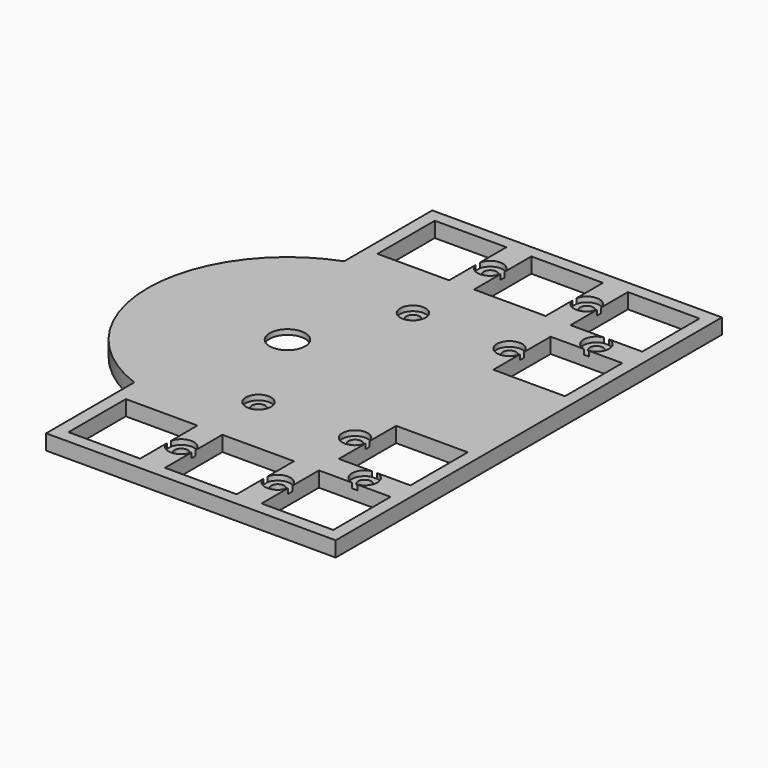
from build123d import *

# Parameters (mm, degrees)
SKETCH014_R     = 3.5
SKETCH014_R_2   = 1.3
SKETCH014_W     = 14.1
SKETCH014_H     = 14.1
PAD004_DEPTH    = 3
SKETCH015_R     = 2.5
POCKET009_DEPTH = 1
SKETCH016_W     = 13
SKETCH016_H     = 15
POCKET010_DEPTH = 2


with BuildPart() as part:
    # Sketch014 → Pad004 (new body)
    with BuildSketch(Plane.XY):
        with BuildLine():
            Line((0, 0), (57, 0))
            Line((57, 0), (57, 95))
            Line((57, 95), (0, 95))
            Line((0, 73.306976), (0, 95))
            ThreePointArc((0, 73.306976), (-18, 47.5), (0, 21.693024))
            Line((0, 21.693024), (0, 0))
        make_face()
        with Locations((9.5, 47.5)):
            Circle(SKETCH014_R, mode=Mode.SUBTRACT)
        with Locations((19, 85.5)):
            Circle(SKETCH014_R_2, mode=Mode.SUBTRACT)
        with Locations((38, 85.5)):
            Circle(SKETCH014_R_2, mode=Mode.SUBTRACT)
        with Locations((38, 66.5)):
            Circle(SKETCH014_R_2, mode=Mode.SUBTRACT)
        with Locations((19, 66.5)):
            Circle(SKETCH014_R_2, mode=Mode.SUBTRACT)
        with Locations((38, 28.5)):
            Circle(SKETCH014_R_2, mode=Mode.SUBTRACT)
        with Locations((19, 28.5)):
            Circle(SKETCH014_R_2, mode=Mode.SUBTRACT)
        with Locations((19, 9.5)):
            Circle(SKETCH014_R_2, mode=Mode.SUBTRACT)
        with Locations((38, 9.5)):
            Circle(SKETCH014_R_2, mode=Mode.SUBTRACT)
        with Locations((47.5, 19)):
            Circle(SKETCH014_R_2, mode=Mode.SUBTRACT)
        with Locations((47.5, 76)):
            Circle(SKETCH014_R_2, mode=Mode.SUBTRACT)
        with Locations((9.5, 9.5)):
            Rectangle(SKETCH014_W, SKETCH014_H, mode=Mode.SUBTRACT)
        with Locations((28.5, 9.5)):
            Rectangle(SKETCH014_W, SKETCH014_H, mode=Mode.SUBTRACT)
        with Locations((47.5, 9.5)):
            Rectangle(SKETCH014_W, SKETCH014_H, mode=Mode.SUBTRACT)
        with Locations((47.5, 28.5)):
            Rectangle(SKETCH014_W, SKETCH014_H, mode=Mode.SUBTRACT)
        with Locations((47.5, 66.5)):
            Rectangle(SKETCH014_W, SKETCH014_H, mode=Mode.SUBTRACT)
        with Locations((47.5, 85.5)):
            Rectangle(SKETCH014_W, SKETCH014_H, mode=Mode.SUBTRACT)
        with Locations((28.5, 85.5)):
            Rectangle(SKETCH014_W, SKETCH014_H, mode=Mode.SUBTRACT)
        with Locations((9.5, 85.5)):
            Rectangle(SKETCH014_W, SKETCH014_H, mode=Mode.SUBTRACT)
    extrude(amount=PAD004_DEPTH)

    # Sketch015 (on Face51 of Pad004) → Pocket009 (cut)
    with BuildSketch(Plane.XY.offset(3)):
        with Locations((19, 28.5)):
            Circle(SKETCH015_R)
        with Locations((38, 28.5)):
            Circle(SKETCH015_R)
        with Locations((47.5, 19)):
            Circle(SKETCH015_R)
        with Locations((38, 9.5)):
            Circle(SKETCH015_R)
        with Locations((19, 9.5)):
            Circle(SKETCH015_R)
        with Locations((19, 66.5)):
            Circle(SKETCH015_R)
        with Locations((38, 85.5)):
            Circle(SKETCH015_R)
        with Locations((38, 66.5)):
            Circle(SKETCH015_R)
        with Locations((47.5, 76)):
            Circle(SKETCH015_R)
        with Locations((19, 85.5)):
            Circle(SKETCH015_R)
    extrude(amount=-POCKET009_DEPTH, mode=Mode.SUBTRACT)

    # Sketch016 (on Face4 of Pocket009) → Pocket010 (cut)
    with BuildSketch(Plane(origin=(0, 0, 0), x_dir=(1, 0, 0), z_dir=(0, 0, -1))):
        with Locations((9.5, -47.5)):
            Rectangle(SKETCH016_W, SKETCH016_H)
    extrude(amount=-POCKET010_DEPTH, mode=Mode.SUBTRACT)


with BuildPart() as part_1:
    # Body002 placement: moved
    add(part.part.moved(Location((6, 6, 11))))


solid = part_1.part
